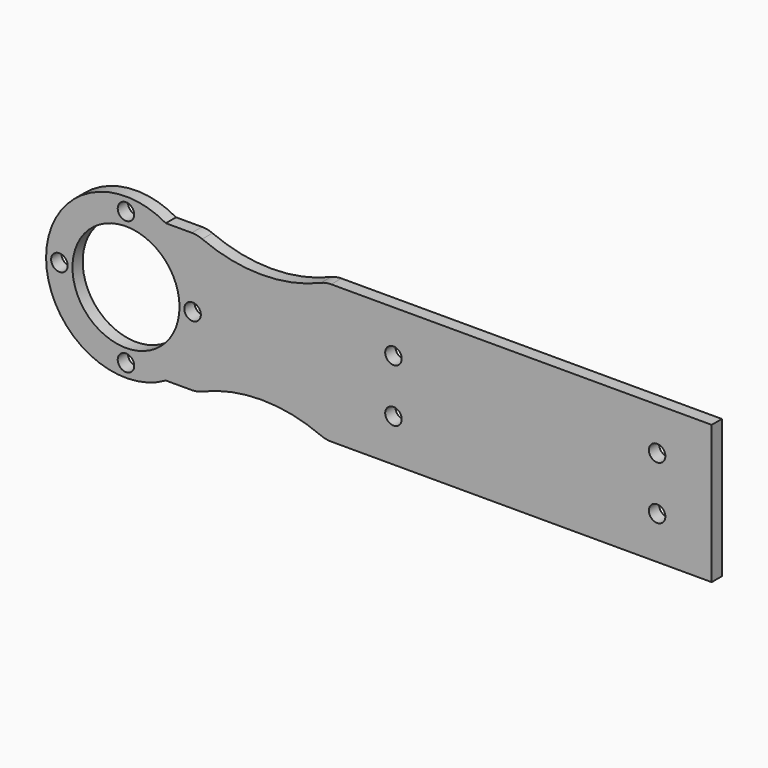
from build123d import *

# Parameters (mm, degrees)
F0_W     = 69.999946
F0_H     = 26
F0_R     = 1.55
F0_R_2   = 10.05
F1_DEPTH = 2.4


with BuildPart() as f1:
    # F0 (on Front) → F1 (new body)
    with BuildSketch(Plane.XZ):
        with Locations((-72.099808, 41.924007)):
            Rectangle(F0_W, F0_H)
        with Locations((-96.849781, 36.922232)):
            Circle(F0_R, mode=Mode.SUBTRACT)
        with Locations((-47.349781, 36.922232)):
            Circle(F0_R, mode=Mode.SUBTRACT)
        with Locations((-96.849835, 46.922232)):
            Circle(F0_R, mode=Mode.SUBTRACT)
        with Locations((-47.349835, 46.922232)):
            Circle(F0_R, mode=Mode.SUBTRACT)
        with BuildLine():
            Line((-107.099781, 28.924007), (-107.099781, 54.924007))
            Line((-107.099781, 54.924007), (-108.534649, 54.924007))
            ThreePointArc((-108.534649, 54.924007), (-109.531514, 54.823625), (-110.488353, 54.52651))
            ThreePointArc((-110.488353, 54.52651), (-121.621192, 52.261447), (-132.75403, 54.52651))
            ThreePointArc((-132.75403, 54.52651), (-133.710869, 54.823625), (-134.707734, 54.924007))
            Line((-134.707734, 54.924007), (-139.582466, 54.924007))
            ThreePointArc((-139.582466, 54.924007), (-162.065781, 41.924007), (-139.582466, 28.924007))
            Line((-139.582466, 28.924007), (-134.707734, 28.924007))
            ThreePointArc((-134.707734, 28.924007), (-133.710869, 29.024388), (-132.75403, 29.321503))
            ThreePointArc((-132.75403, 29.321503), (-121.621192, 31.586566), (-110.488353, 29.321503))
            ThreePointArc((-110.488353, 29.321503), (-109.531514, 29.024388), (-108.534649, 28.924007))
            Line((-108.534649, 28.924007), (-107.099781, 28.924007))
        make_face()
        with Locations((-147.065781, 29.424007)):
            Circle(F0_R, mode=Mode.SUBTRACT)
        with Locations((-159.565781, 41.924007)):
            Circle(F0_R, mode=Mode.SUBTRACT)
        with Locations((-147.065781, 41.924007)):
            Circle(F0_R_2, mode=Mode.SUBTRACT)
        with Locations((-134.565781, 41.924007)):
            Circle(F0_R, mode=Mode.SUBTRACT)
        with Locations((-147.065781, 54.424007)):
            Circle(F0_R, mode=Mode.SUBTRACT)
    extrude(amount=F1_DEPTH)


solid = f1.part
